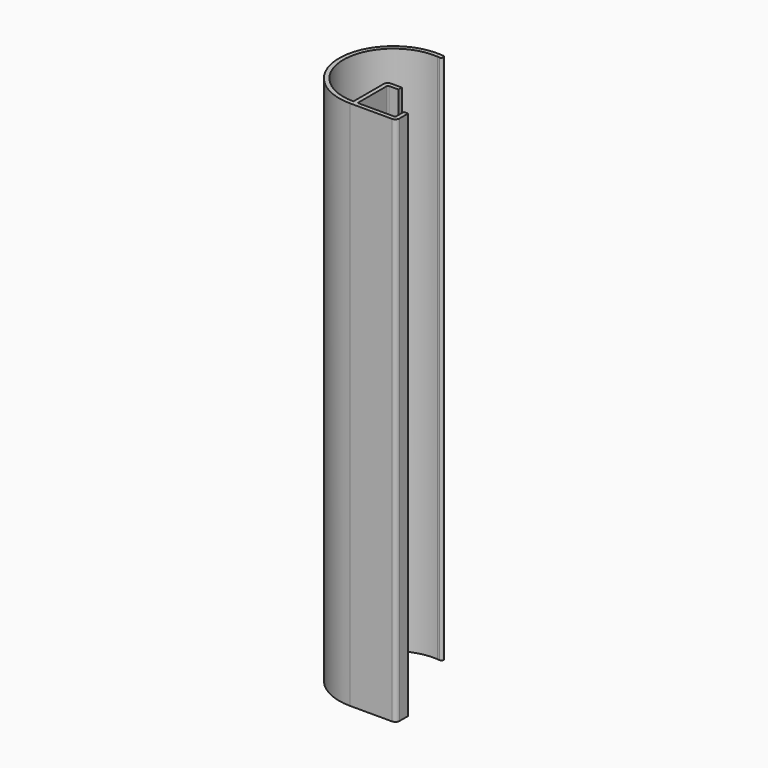
from build123d import *

# Parameters (mm, degrees)
F1_DEPTH = 100


with BuildPart() as f1:
    # F0 (on Top) → F1 (new body)
    with BuildSketch(Plane.XY):
        with BuildLine():
            ThreePointArc((-10, 9.6687327982), (-21.0421802167, -0.1496946047), (-10.8, -10.8))
            Line((-10.8, -10.8), (-10.8, -10))
            ThreePointArc((-10.8, -10), (-20.2415153605, -0.1496405391), (-10, 8.8660766777))
            Line((-10, 8.8660766777), (-10, 9.2266302988))
            Line((-10, 9.2266302988), (-10, 9.6687327982))
        make_face()
        with BuildLine():
            Line((-10.8, -2.9), (-10.8, -10))
            ThreePointArc((-10.8, -10), (-10.3996405391, -9.9915153605), (-10, -9.9660766777))
            Line((-10, -9.9660766777), (-10, -3.1))
            ThreePointArc((-10, -3.1), (-9.9414213562, -2.9585786438), (-9.8, -2.9))
            Line((-9.8, -2.9), (-8, -2.9))
            Line((-8, -2.9), (-8, -2.1))
            Line((-8, -2.1), (-10, -2.1))
            ThreePointArc((-10, -2.1), (-10.5656854249, -2.3343145751), (-10.8, -2.9))
        make_face()
        with BuildLine():
            Line((-10.8, -10), (-10.8, -10.8))
            ThreePointArc((-10.8, -10.8), (-8.7751543269, -10.5980097532), (-6.8301133517, -10))
            Line((-6.8301133517, -10), (-10, -10))
            Line((-10, -10), (-10, -9.9660766777))
            ThreePointArc((-10, -9.9660766777), (-10.3996405391, -9.9915153605), (-10.8, -10))
        make_face()
        with BuildLine():
            Line((-2.1, -10), (-2.1, -8))
            Line((-2.1, -8), (-2.9, -8))
            Line((-2.9, -8), (-2.9, -9.8))
            ThreePointArc((-2.9, -9.8), (-2.9585786438, -9.9414213562), (-3.1, -10))
            Line((-3.1, -10), (-6.8301133517, -10))
            ThreePointArc((-6.8301133517, -10), (-8.7751543269, -10.5980097532), (-10.8, -10.8))
            Line((-10.8, -10.8), (-2.9, -10.8))
            ThreePointArc((-2.9, -10.8), (-2.3343145751, -10.5656854249), (-2.1, -10))
        make_face()
        with BuildLine():
            ThreePointArc((-9.5512689743, 9.6236508111), (-9.8650543244, 9.5262070088), (-10, 9.2266302988))
            ThreePointArc((-10, 9.2266302988), (-9.8995766936, 8.9615759561), (-9.6487309769, 8.8296097806))
            ThreePointArc((-9.6487309769, 8.8296097806), (-9.3349456572, 8.9270536052), (-9.2, 9.2266302988))
            ThreePointArc((-9.2, 9.2266302988), (-9.3004232901, 9.4916846232), (-9.5512689743, 9.6236508111))
        make_face()
        with BuildLine():
            ThreePointArc((-9.5512689743, 9.6236508111), (-9.7753865117, 9.6486600688), (-10, 9.6687327982))
            Line((-10, 9.6687327982), (-10, 9.2266302988))
            ThreePointArc((-10, 9.2266302988), (-9.8650543244, 9.5262070088), (-9.5512689743, 9.6236508111))
        make_face()
        with BuildLine():
            ThreePointArc((-9.6487309769, 8.8296097806), (-9.8995766936, 8.9615759561), (-10, 9.2266302988))
            Line((-10, 9.2266302988), (-10, 8.8660766777))
            ThreePointArc((-10, 8.8660766777), (-9.8241951226, 8.8494842859), (-9.6487309769, 8.8296097806))
        make_face()
    extrude(amount=F1_DEPTH)


solid = f1.part
